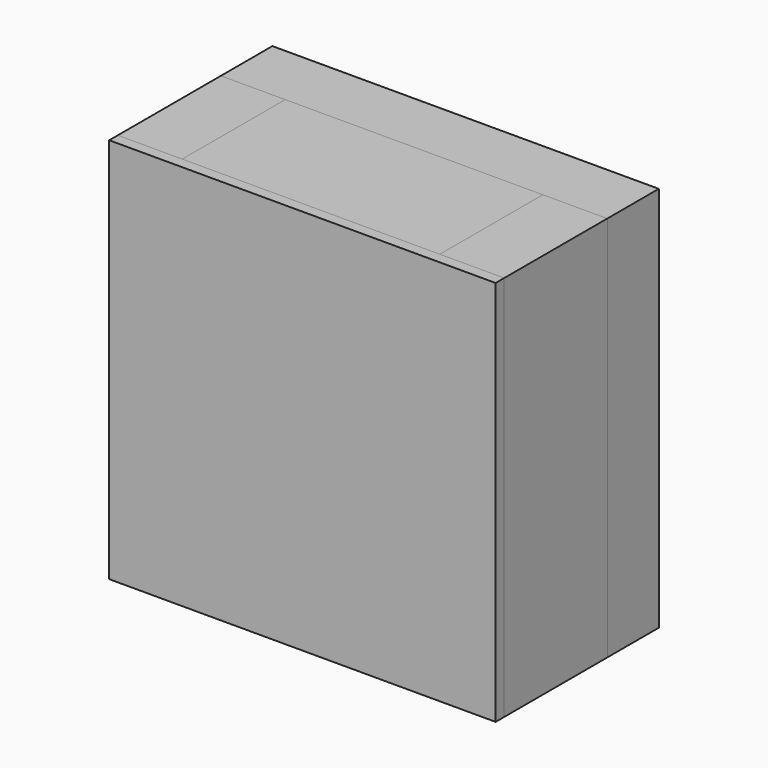
from build123d import *

# Parameters (mm, degrees)
F0_W      = 609.6
F0_H      = 609.6
F1_DEPTH  = 304.8
F2_W      = 609.6
F2_H      = 304.8
F3_DEPTH  = 152.4
F4_W      = 609.6
F4_H      = 304.8
F5_DEPTH  = 152.4
F6_W      = 304.8
F6_H      = 914.4
F7_DEPTH  = 152.4
F8_W      = 304.8
F8_H      = 914.4
F9_DEPTH  = 152.4
F10_W     = 914.4
F10_H     = 914.4
F11_DEPTH = 152.4
F12_W     = 914.4
F12_H     = 914.4
F13_DEPTH = 25.4


with BuildPart() as f1:
    # F0 (on Front) → F1 (new body)
    with BuildSketch(Plane.XZ):
        with Locations((304.8, 304.8)):
            Rectangle(F0_W, F0_H)
    extrude(amount=F1_DEPTH)


with BuildPart() as f3:
    # F2 (on face) → F3 (new body)
    with BuildSketch(Plane.XY.offset(609.6)):
        with Locations((304.8, -152.4)):
            Rectangle(F2_W, F2_H)
    extrude(amount=F3_DEPTH)


with BuildPart() as f5:
    # F4 (on face) → F5 (new body)
    with BuildSketch(Plane(origin=(0, 0, 0), x_dir=(1, 0, 0), z_dir=(0, 0, -1))):
        with Locations((304.8, 152.4)):
            Rectangle(F4_W, F4_H)
    extrude(amount=F5_DEPTH)


with BuildPart() as f7:
    # F6 (on face) → F7 (new body)
    with BuildSketch(Plane(origin=(0, 0, 0), x_dir=(0, -1, 0), z_dir=(-1, 0, 0))):
        with Locations((152.4, 304.8)):
            Rectangle(F6_W, F6_H)
    extrude(amount=F7_DEPTH)


with BuildPart() as f9:
    # F8 (on face) → F9 (new body)
    with BuildSketch(Plane.YZ.offset(609.6)):
        with Locations((-152.4, 304.8)):
            Rectangle(F8_W, F8_H)
    extrude(amount=F9_DEPTH)


with BuildPart() as f11:
    # F10 (on face) → F11 (new body)
    with BuildSketch(Plane(origin=(0, 0, 0), x_dir=(-1, 0, 0), z_dir=(0, 1, 0))):
        with Locations((-304.8, 304.8)):
            Rectangle(F10_W, F10_H)
    extrude(amount=F11_DEPTH)


with BuildPart() as f13:
    # F12 (on face) → F13 (new body)
    with BuildSketch(Plane.XZ.offset(304.8)):
        with Locations((304.8, 304.8)):
            Rectangle(F12_W, F12_H)
    extrude(amount=F13_DEPTH)


solid = Compound([f1.part, f3.part, f5.part, f7.part, f9.part, f11.part, f13.part])
